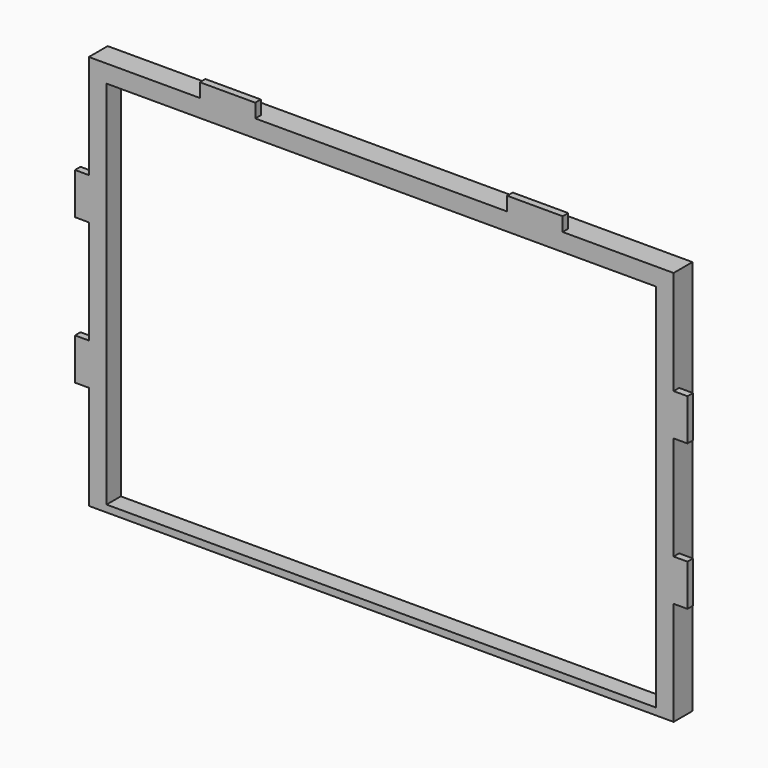
from build123d import *

# Parameters (mm, degrees)
F1_DEPTH = 6.35
F3_DEPTH = 15.24
F4_W     = 515.874
F4_H     = 352.143454
F5_DEPTH = 9.9822
F6_W     = 503.174003
F6_H     = 339.443454
F7_DEPTH = 16.3332


with BuildPart() as f1:
    # F0 (on Front) → F1 (new body)
    with BuildSketch(Plane.XZ):
        Polygon((0, 95.25), (0, 0), (535.559, 0), (535.559, 95.25), (548.259, 95.25), (548.259, 133.35), (535.559, 133.35), (535.559, 228.635954), (548.259, 228.635954), (548.259, 266.735954), (535.559, 266.735954), (535.559, 361.985954), (433.959, 361.985954), (433.959, 374.685954), (383.159, 374.685954), (383.159, 361.985954), (152.4, 361.985954), (152.4, 374.685954), (101.6, 374.685954), (101.6, 361.985954), (0, 361.985954), (0, 266.735954), (-12.7, 266.735954), (-12.7, 228.635954), (0, 228.635954), (0, 133.35), (-12.7, 133.35), (-12.7, 95.25), align=None)
    extrude(amount=F1_DEPTH)

    # F2 (on face) → F3 (join)
    with BuildSketch(Plane(origin=(0, 0, 0), x_dir=(-1, 0, 0), z_dir=(0, 1, 0))):
        Polygon((0, 361.985954), (-535.559, 361.985954), (-535.559, 359.445954), (-535.559, 354.683454), (-535.559, 352.143454), (-535.559, 0), (-533.019, 0), (-533.019, 352.143454), (-533.019, 354.683454), (-533.019, 359.445954), (-2.54, 359.445954), (0, 359.445954), align=None)
        Polygon((0, 352.143454), (0, 354.683454), (-2.54, 354.683454), (-2.54, 352.143454), (-2.54, 0), (0, 0), align=None)
        Polygon((-528.2565, 352.143454), (-528.2565, 0), (-525.7165, 0), (-525.7165, 352.143454), (-9.8425, 352.143454), (-9.8425, 0), (-7.3025, 0), (-7.3025, 352.143454), (-7.3025, 354.683454), (-528.2565, 354.683454), align=None)
    extrude(amount=F3_DEPTH)

    # F4 (on face) → F5 (join)
    with BuildSketch(Plane(origin=(0, 0, 0), x_dir=(-1, 0, 0), z_dir=(0, 1, 0))):
        with Locations((-267.7795, 176.071727)):
            Rectangle(F4_W, F4_H)
    extrude(amount=F5_DEPTH)

    # F6 (on face) → F7 (cut, through all)
    with BuildSketch(Plane(origin=(0, 9.9822, 0), x_dir=(-1, 0, 0), z_dir=(0, 1, 0))):
        with Locations((-267.779501, 176.071727)):
            Rectangle(F6_W, F6_H)
    extrude(amount=-F7_DEPTH, mode=Mode.SUBTRACT)


solid = f1.part
